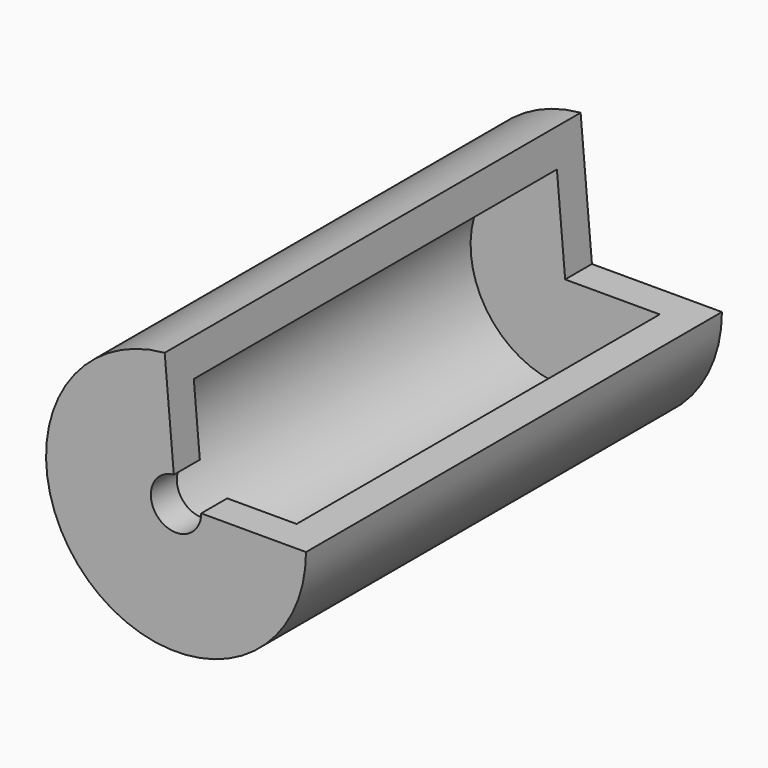
from build123d import *

# Parameters (mm, degrees)
F1_ANGLE = 265


with BuildPart() as f1:
    # F0 (on Top) → F1 (revolve)
    with BuildSketch(Plane.XY):
        Polygon((25.4, 50.8), (0, 50.8), (0, 44.253774), (18.482406, 44.253774), (18.482406, -44.45), (25.4, -44.45), align=None)
        Polygon((25.4, -50.8), (25.4, -44.45), (18.482406, -44.45), (4.925116, -44.45), (4.925116, -50.8), align=None)
    revolve(axis=Axis((0, 25.4, 0), (0, 1, 0)), revolution_arc=F1_ANGLE)


solid = f1.part
